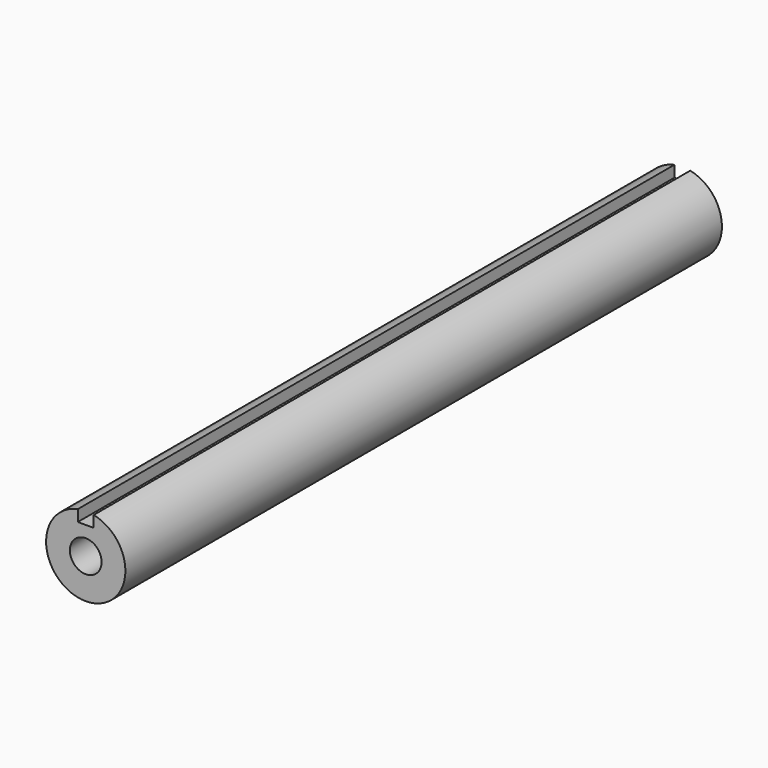
from build123d import *

# Parameters (mm, degrees)
F0_R          = 20
F1_DEPTH      = 470
F1_DEPTH_BACK = 470


with BuildPart() as f1:
    # F0 (on Front) → F1 (new body, two sides)
    with BuildSketch(Plane.XZ) as f1_sk:
        with BuildLine():
            Line((-10, 234.674186), (-10, 248.989795))
            ThreePointArc((-10, 248.989795), (0, 150), (10, 248.989795))
            Line((10, 248.989795), (10, 234.674186))
            Line((10, 234.674186), (-10, 234.674186))
        make_face()
        with Locations((0, 200)):
            Circle(F0_R, mode=Mode.SUBTRACT)
    extrude(amount=F1_DEPTH)
    extrude(f1_sk.sketch, amount=-F1_DEPTH_BACK)


solid = f1.part
